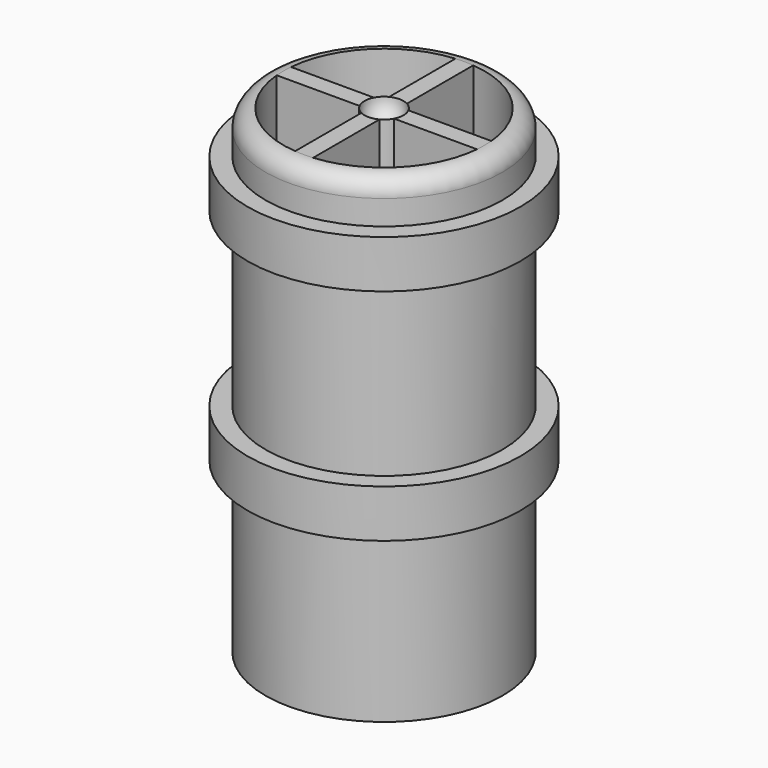
from build123d import *

# Parameters (mm, degrees)
F0_W     = 8.2
F0_H     = 10.1501198854
F3_DEPTH = 40.001


with BuildPart() as f1:
    # F0 (on Front) → F1 (revolve)
    with BuildSketch(Plane.XZ):
        with BuildLine():
            Line((0, 20.7812930996), (0, 19.9062930996))
            Line((0, 19.9062930996), (8.2, 19.9062930996))
            Line((8.2, 19.9062930996), (8.2, 9.7561732142))
            ThreePointArc((8.2, 9.7561732142), (7.5521513161, 9.157637487), (8.0976322153, 8.4645260079))
            ThreePointArc((8.0976322153, 8.4645260079), (8.1486556126, 8.4584444157), (8.2, 8.456412985))
            Line((8.2, 8.456412985), (8.2, 8.4481973997))
            Line((8.2, 8.4481973997), (8.2, -17.5937069004))
            Line((8.2, -17.5937069004), (9.9, -17.5937069004))
            Line((9.9, -17.5937069004), (9.9, -3.4926675876))
            Line((9.9, -3.4926675876), (11.4, -3.4926675876))
            Line((11.4, -3.4926675876), (11.4, 0.5073324124))
            Line((11.4, 0.5073324124), (9.9, 0.5073324124))
            Line((9.9, 0.5073324124), (9.9, 14.8537900239))
            Line((9.9, 14.8537900239), (11.4, 14.8537900239))
            Line((11.4, 14.8537900239), (11.4, 18.8537900239))
            Line((11.4, 18.8537900239), (9.9, 18.8537900239))
            Line((9.9, 18.8537900239), (9.9, 20.9062930996))
            ThreePointArc((9.9, 20.9062930996), (9.4606601718, 21.9669532714), (8.4, 22.4062930996))
            Line((8.4, 22.4062930996), (1.625, 22.4062930996))
            ThreePointArc((1.625, 22.4062930996), (1.1490485194, 21.2572445802), (0, 20.7812930996))
        make_face()
        with Locations((4.1, 14.8312331569)):
            Rectangle(F0_W, F0_H)
    revolve(axis=Axis((0, 0, 1.5937930996), (0, 0, -1)))

    # F2 (on face) → F3 (cut, through all)
    with BuildSketch(Plane.XY.offset(22.4062930996)):
        with BuildLine():
            Line((-0.7288242211, 1.4523912196), (-0.7288242211, 8.368322129))
            ThreePointArc((-0.7288242211, 8.368322129), (-5.9321762632, 5.9472081503), (-8.3664508604, 0.75))
            Line((-8.3664508604, 0.75), (-1.4415703243, 0.75))
            ThreePointArc((-1.4415703243, 0.75), (-1.1406101337, 1.1574253855), (-0.7288242211, 1.4523912196))
        make_face()
        with BuildLine():
            Line((-1.4415703243, -0.75), (-8.3664508604, -0.75))
            ThreePointArc((-8.3664508604, -0.75), (-5.9321762632, -5.9472081503), (-0.7288242211, -8.368322129))
            Line((-0.7288242211, -8.368322129), (-0.7288242211, -1.4523912196))
            ThreePointArc((-0.7288242211, -1.4523912196), (-1.1406101337, -1.1574253855), (-1.4415703243, -0.75))
        make_face()
        with BuildLine():
            ThreePointArc((0.7711757789, -8.3645255644), (5.9472098536, -5.9321745555), (8.3664508604, -0.75))
            Line((8.3664508604, -0.75), (1.4415703243, -0.75))
            ThreePointArc((1.4415703243, -0.75), (1.1574894223, -1.1405451492), (0.7711757789, -1.4303541233))
            Line((0.7711757789, -1.4303541233), (0.7711757789, -8.3645255644))
        make_face()
        with BuildLine():
            ThreePointArc((8.3664508604, 0.75), (5.9472098536, 5.9321745555), (0.7711757789, 8.3645255644))
            Line((0.7711757789, 8.3645255644), (0.7711757789, 1.4303541233))
            ThreePointArc((0.7711757789, 1.4303541233), (1.1574894223, 1.1405451492), (1.4415703243, 0.75))
            Line((1.4415703243, 0.75), (8.3664508604, 0.75))
        make_face()
    extrude(amount=-F3_DEPTH, mode=Mode.SUBTRACT)


solid = f1.part
